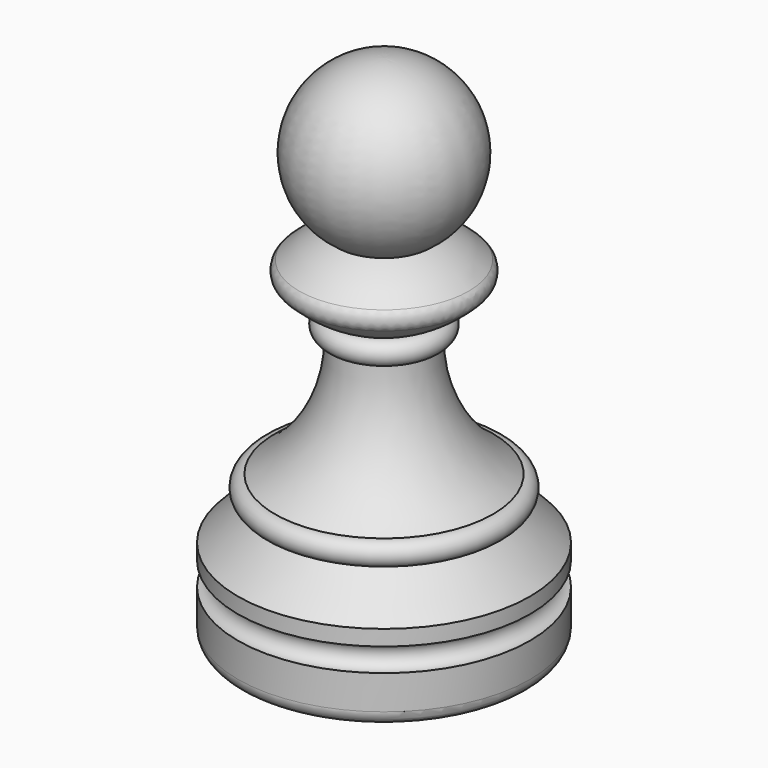
from build123d import *

# Parameters (mm, degrees)
F2_R = 1.43002
F5_R = 1.27


with BuildPart() as f1:
    # F0 (on Front) → F1 (revolve)
    with BuildSketch(Plane.XZ):
        with BuildLine():
            Line((10.668, 0), (0, 0))
            Line((0, 0), (0, -12.192))
            Line((0, -12.192), (14.2875, -12.192))
            Line((14.2875, -12.192), (14.2875, -7.4295))
            ThreePointArc((14.2875, -7.4295), (13.1445, -6.2865), (14.2875, -5.1435))
            Line((14.2875, -5.1435), (14.2875, -3.6195))
            Line((14.2875, -3.6195), (10.668, 0))
        make_face()
    revolve(axis=Axis((0, 0, -6.096), (0, 0, 1)))

    # F2
    f2_edges = [f1.edges().sort_by_distance(p)[0] for p in [
        (-14.2875, 0, -12.192),
    ]]
    fillet(f2_edges, radius=F2_R)

    # F3 (on Front) → F4 (revolve)
    with BuildSketch(Plane.XZ):
        with BuildLine():
            Line((0, 0), (10.668, 0))
            ThreePointArc((10.668, 0), (11.811, 1.143), (10.668, 2.286))
            ThreePointArc((10.668, 2.286), (6.122773, 7.424839), (4.572, 14.107792))
            ThreePointArc((4.572, 14.107792), (5.715, 15.250792), (4.572, 16.393792))
            ThreePointArc((4.572, 16.393792), (7.053386, 17.847777), (9.144, 19.822792))
            ThreePointArc((9.144, 19.822792), (7.053386, 21.797807), (4.572, 23.251792))
            ThreePointArc((4.572, 23.251792), (7.768083, 32.363917), (0, 38.1))
            Line((0, 38.1), (0, 0))
        make_face()
    revolve(axis=Axis((0, 0, 19.05), (0, 0, 1)))

    # F5
    f5_edges = [f1.edges().sort_by_distance(p)[0] for p in [
        (-9.144, 0, 19.822792),
    ]]
    fillet(f5_edges, radius=F5_R)


solid = f1.part
